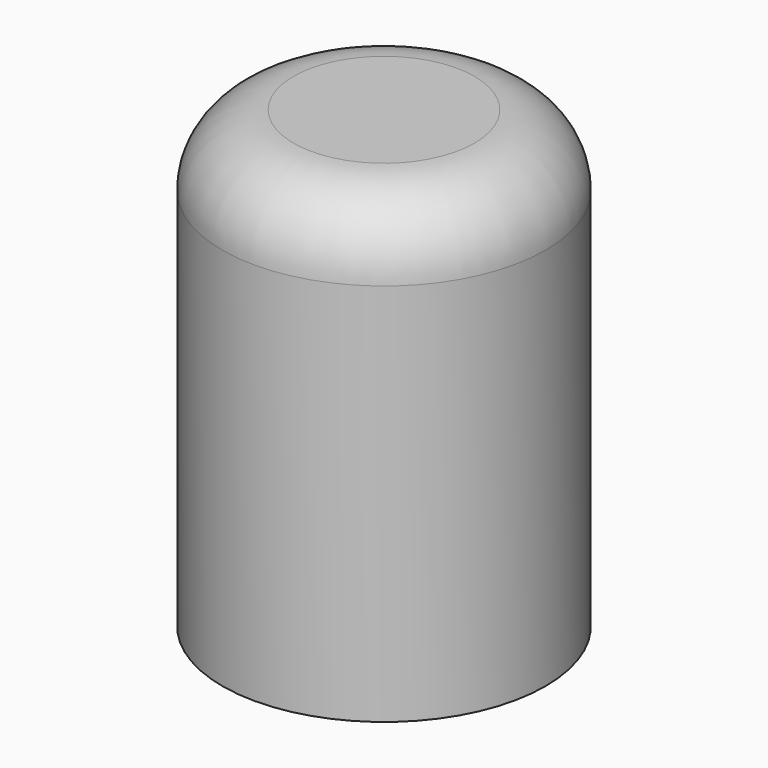
from build123d import *

# Parameters (mm, degrees)
F0_R     = 11.3656440934
F1_DEPTH = 25
F2_DEPTH = 32
F3_R     = 5


with BuildPart() as f1:
    # F0 (on Top) → F1 (new body)
    with BuildSketch(Plane.XY):
        with Locations((0, 23.474432528)):
            Circle(F0_R)
    extrude(amount=F1_DEPTH)

    # F2 (add): a face of the model
    f2_faces = [f1.faces().sort_by_distance(p)[0] for p in [
        (0, 23.474432528, 25),
    ]]
    extrude(f2_faces, amount=-F2_DEPTH)

    # F3
    f3_edges = [f1.edges().sort_by_distance(p)[0] for p in [
        (-11.365644, 23.474433, 25),
    ]]
    fillet(f3_edges, radius=F3_R)


solid = f1.part
